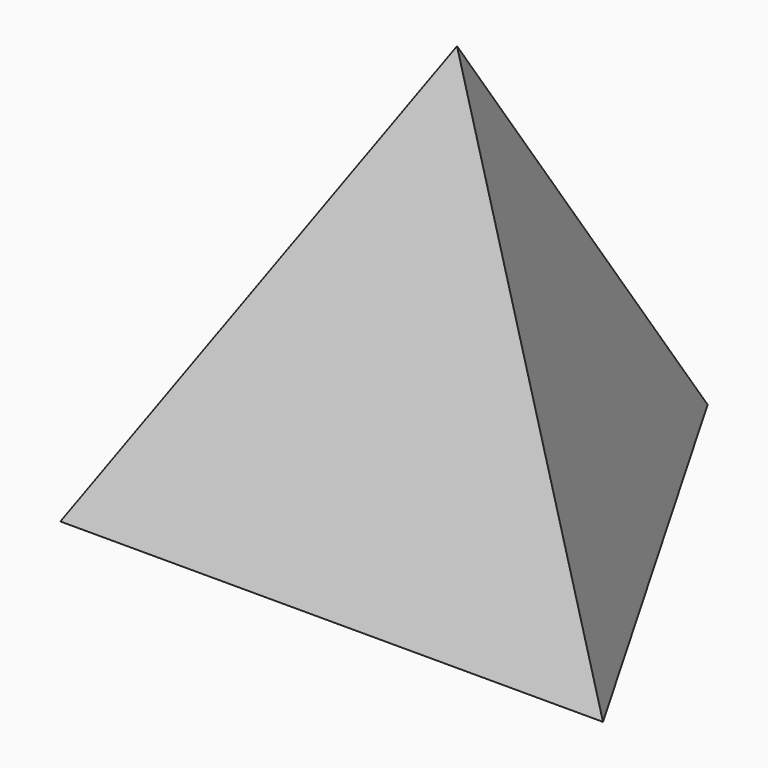
from build123d import *


with BuildPart() as f3:
    # F0 (on Top) → F3 section 0
    with BuildSketch(Plane.XY, mode=Mode.PRIVATE) as f3_s0:
        Polygon((76.989658, -44.45), (0, 88.9), (-76.989658, -44.45), align=None)
    loft([f3_s0.sketch, Vertex(0, 0, 125.73)])


solid = f3.part
